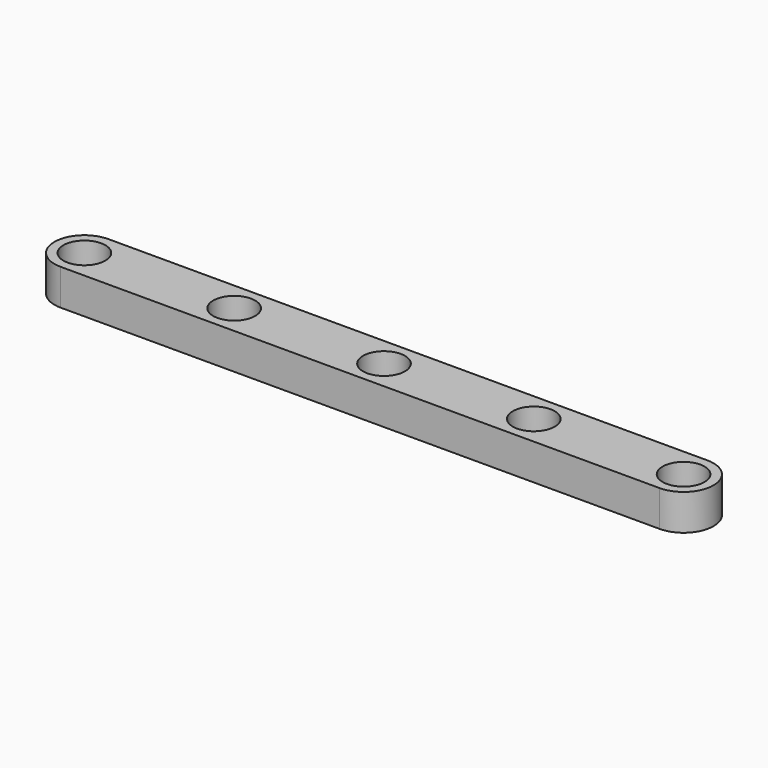
from build123d import *

# Parameters (mm, degrees)
F0_R     = 1.75
F1_DEPTH = 3
F2_R     = 1.75
F3_DEPTH = 3.001


with BuildPart() as f1:
    # F0 (on Top) → F1 (new body)
    with BuildSketch(Plane.XY):
        with BuildLine():
            Line((25, 2.5), (-25, 2.5))
            ThreePointArc((-25, 2.5), (-27.5, 0), (-25, -2.5))
            Line((-25, -2.5), (25, -2.5))
            ThreePointArc((25, -2.5), (27.5, 0), (25, 2.5))
        make_face()
        with Locations((-25, 0)):
            Circle(F0_R, mode=Mode.SUBTRACT)
        with Locations((25, 0)):
            Circle(F0_R, mode=Mode.SUBTRACT)
    extrude(amount=F1_DEPTH)

    # F2 (on face) → F3 (cut, through all)
    with BuildSketch(Plane.XY.offset(3)):
        with Locations((12.5, 0)):
            Circle(F2_R)
        with Locations((-12.5, 0)):
            Circle(F2_R)
        Circle(F2_R)
    extrude(amount=-F3_DEPTH, mode=Mode.SUBTRACT)


solid = f1.part
